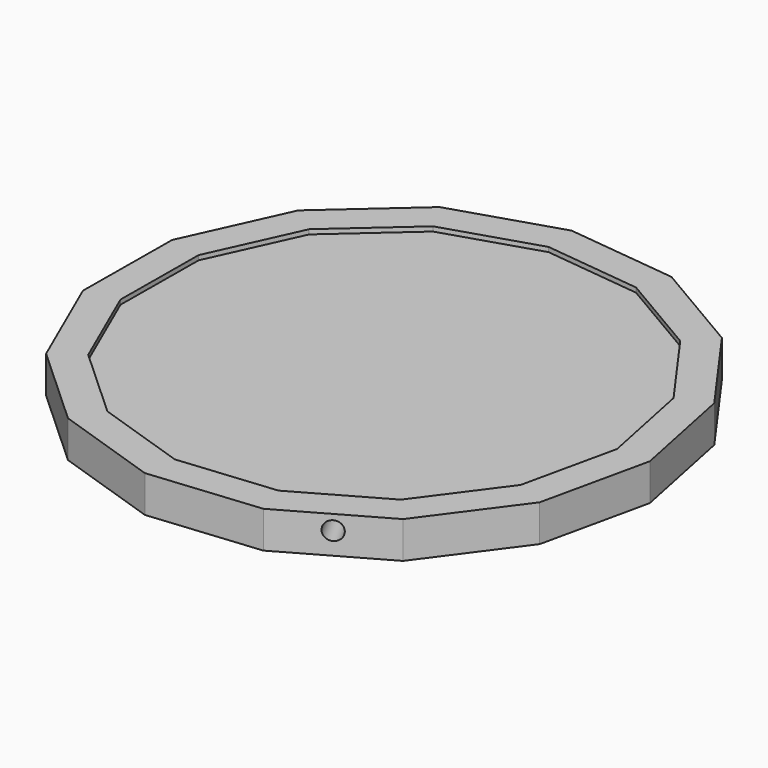
from build123d import *

# Parameters (mm, degrees)
F1_DEPTH = 25.4
F2_T     = -22.225
F4_D     = 12.7


with BuildPart() as f1:
    # F0 (on Top) → F1 (new body)
    with BuildSketch(Plane.XY):
        Polygon((-147.42167, 108.847304), (-178.948584, 39.475165), (-179.533662, -36.722589), (-149.075739, -106.570674), (-92.841266, -157.991721), (-20.553695, -182.094564), (55.287797, -174.711602), (121.569526, -137.119418), (166.83078, -75.81804), (183.245477, -1.407035), (167.975366, 73.24726), (123.660788, 135.236438), (57.964136, 173.842007), (-17.755041, 182.388714), (-90.40421, 159.398755), align=None)
    extrude(amount=F1_DEPTH)

    # F2
    f2_openings = [f1.faces().sort_by_distance(p)[0] for p in [
        (0, 0, 25.4),
    ]]
    offset(amount=F2_T, openings=f2_openings)

    # F4 (through all)
    with Locations(Plane(origin=(88.428662, -155.91551, 0), x_dir=(0.869839, 0.493336, 0), z_dir=(0.493336, -0.869839, 0))):
        with Locations((0, 15.245483)):
            Hole(F4_D / 2)


solid = f1.part
